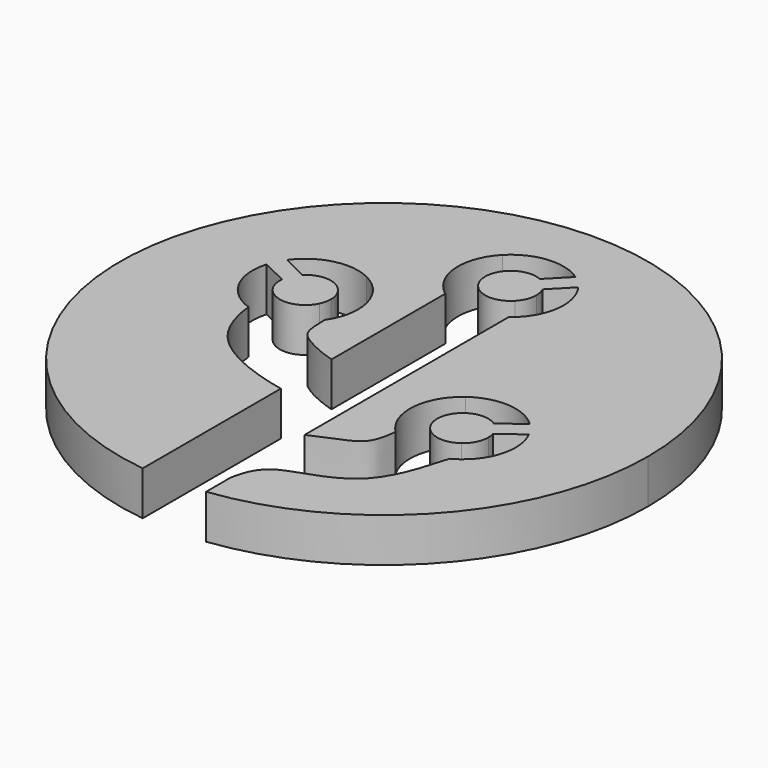
from build123d import *

# Parameters (mm, degrees)
F1_DEPTH = 12.7
F2_SCALE = 0.66


with BuildPart() as f1:
    # F0 (on Top) → F1 (new body)
    with BuildSketch(Plane.XY):
        with BuildLine():
            ThreePointArc((9.144, -75.649370546), (57.0228585744, -50.545361805), (76.2, 0))
            ThreePointArc((76.2, 0), (-50.545361805, 57.0228585744), (-9.144, -75.649370546))
            Line((-9.144, -75.649370546), (-9.144, -25.8135372295))
            add(Edge.make_bspline(
                [(-39.7183440202, 0.7753508904), (-39.4440910843, -2.777005422), (-36.553083053, -17.1021078443), (-18.9419593371, -23.7369574995), (-9.144, -25.8135372295)],
                knots=[0, 0, 0, 0, 0.4252369996, 1, 1, 1, 1], degree=3))
            ThreePointArc((-39.7183440202, 0.7753508904), (-40.6754742648, 1.1288974537), (-41.6068021603, 1.5456969604))
            ThreePointArc((-41.6068021603, 1.5456969604), (-48.8665814514, 9.0976146242), (-49.5365875824, 19.5516543956))
            Line((-49.5365875824, 19.5516543956), (-49.7281257293, 19.6451915248))
            Line((-49.7281257293, 19.6451915248), (-48.6135298352, 21.9275753647))
            Line((-48.6135298352, 21.9275753647), (-47.4989339411, 24.2099592047))
            Line((-47.4989339411, 24.2099592047), (-47.3073957942, 24.1164220755))
            ThreePointArc((-47.3073957942, 24.1164220755), (-38.6511413432, 30.0160080471), (-28.2316514308, 28.9343030396))
            ThreePointArc((-28.2316514308, 28.9343030396), (-21.9929696312, 23.3127613442), (-19.6792267956, 15.24))
            ThreePointArc((-19.6792267956, 15.24), (-20.0706784099, 11.8080601931), (-21.2249237559, 8.5524246353))
            ThreePointArc((-21.2249237559, 8.5524246353), (-21.7640042988, 7.5459944723), (-22.3769164732, 6.5827457137))
            add(Edge.make_bspline(
                [(-22.3769164732, 6.5827457137), (-22.3404298332, 0), (-20.8266819608, -2.6844598977), (-13.5609207024, -6.2294838744), (-9.144, -7.5255372295)],
                knots=[0, 0, 0, 0, 0.4802663243, 1, 1, 1, 1], degree=3))
            Line((-9.144, -7.5255372295), (-9.144, 33.528))
            ThreePointArc((-9.144, 33.528), (-9.9126399717, 34.1442853875), (-10.6398545697, 34.8089462134))
            ThreePointArc((-10.6398545697, 34.8089462134), (-15.2387934395, 45.5282331947), (-10.9110537866, 56.3598545697))
            ThreePointArc((-10.9110537866, 56.3598545697), (-1.4654583891, 60.8893780924), (8.6725291214, 58.2517532149))
            Line((8.6725291214, 58.2517532149), (8.8213456053, 58.4043628816))
            Line((8.8213456053, 58.4043628816), (10.6398545697, 56.6310537866))
            Line((10.6398545697, 56.6310537866), (12.4583635342, 54.8577446917))
            Line((12.4583635342, 54.8577446917), (12.3095470503, 54.705135025))
            ThreePointArc((12.3095470503, 54.705135025), (14.4888767171, 50.445468387), (15.24, 45.72))
            ThreePointArc((15.24, 45.72), (14.1163391095, 39.9766063912), (10.9110537866, 35.0801454303))
            ThreePointArc((10.9110537866, 35.0801454303), (10.0575138307, 34.2699338192), (9.144, 33.528))
            Line((9.144, 33.528), (9.144, -40.114004193))
            add(Edge.make_bspline(
                [(24.2416173395, -26.1141094488), (23.9760214951, -29.019635992), (22.6618021702, -35.5712830239), (16.637557432, -36.5809902221), (9.144, -40.114004193)],
                knots=[0, 0, 0, 0, 0.4233523174, 1, 1, 1, 1], degree=3))
            ThreePointArc((24.2416173395, -26.1141094488), (23.4197381725, -25.2409680236), (22.6690500874, -24.305912564))
            ThreePointArc((22.6690500874, -24.305912564), (19.8464755228, -12.9883852305), (25.8533142316, -2.9898232918))
            ThreePointArc((25.8533142316, -2.9898232918), (35.902476764, -0.0317515966), (45.4870784954, -4.2591935428))
            Line((45.4870784954, -4.2591935428), (45.6584180764, -4.132391318))
            Line((45.6584180764, -4.132391318), (47.1694035038, -6.174087436))
            Line((47.1694035038, -6.174087436), (48.6803889311, -8.2157835541))
            Line((48.6803889311, -8.2157835541), (48.50904935, -8.3425857789))
            ThreePointArc((48.50904935, -8.3425857789), (49.7409422113, -11.6939667042), (50.1592267956, -15.24))
            ThreePointArc((50.1592267956, -15.24), (48.5284535825, -22.0990484954), (43.9851393595, -27.4901767082))
            ThreePointArc((43.9851393595, -27.4901767082), (42.9852650291, -28.1704534806), (41.9345988887, -28.76930724))
            add(Edge.make_bspline(
                [(41.9345988887, -28.76930724), (39.9279943087, -35.8152130856), (35.9444698061, -49.8603623611), (18.2756100818, -55.6743562626), (10.5421582828, -58.6083281826), (9.144, -66.9293478131)],
                knots=[0, 0, 0, 0, 0.3663724735, 0.6899474477, 1, 1, 1, 1], degree=3))
            Line((9.144, -66.9293478131), (9.144, -75.649370546))
        make_face()
        with BuildLine():
            ThreePointArc((-42.246771676, 15.991692773), (-41.3581076897, 11.6624633013), (-38.1515548885, 8.6210868642))
            ThreePointArc((-38.1515548885, 8.6210868642), (-32.5245495467, 8.274120524), (-28.3003136597, 12.007671907))
            ThreePointArc((-28.3003136597, 12.007671907), (-27.7424284092, 13.5812290933), (-27.5532267956, 15.24))
            ThreePointArc((-27.5532267956, 15.24), (-28.6715358328, 19.1418346497), (-31.6868987026, 21.8589131358))
            ThreePointArc((-31.6868987026, 21.8589131358), (-36.057035247, 22.5175921793), (-40.0175798878, 20.5564604529))
            ThreePointArc((-40.0175798878, 20.5564604529), (-40.869813648, 19.5814827089), (-41.5381399314, 18.472328093))
            ThreePointArc((-41.5381399314, 18.472328093), (-42.0019035987, 17.2632758839), (-42.246771676, 15.991692773))
        make_face()
        with BuildLine():
            ThreePointArc((-5.2736759969, 50.8625963754), (-7.3654168291, 45.6273127108), (-5.1425963754, 40.4463240031))
            ThreePointArc((-5.1425963754, 40.4463240031), (0.0926872892, 38.3545831709), (5.2736759969, 40.5774036246))
            ThreePointArc((5.2736759969, 40.5774036246), (6.8228972363, 42.9440264224), (7.366, 45.72))
            ThreePointArc((7.366, 45.72), (7.1836656788, 47.3487735922), (6.6456895426, 48.8969114725))
            ThreePointArc((6.6456895426, 48.8969114725), (5.9866540395, 50.0116115169), (5.1425963754, 50.9936759969))
            ThreePointArc((5.1425963754, 50.9936759969), (4.1396028034, 51.8127534522), (3.0086716137, 52.4435296624))
            ThreePointArc((3.0086716137, 52.4435296624), (-1.3810860685, 52.9553684959), (-5.2736759969, 50.8625963754))
        make_face()
        with BuildLine():
            ThreePointArc((28.9983080533, -19.6218577393), (33.8309463237, -22.5251631152), (39.3010845348, -21.1609187423))
            ThreePointArc((39.3010845348, -21.1609187423), (41.4970197426, -18.5552067728), (42.2852267956, -15.24))
            ThreePointArc((42.2852267956, -15.24), (42.2105358085, -14.1936879636), (41.9879775755, -13.1685950634))
            ThreePointArc((41.9879775755, -13.1685950634), (41.5160007505, -11.962725311), (40.8401455379, -10.8581422607))
            ThreePointArc((40.8401455379, -10.8581422607), (39.9812997643, -9.888983904), (38.9660067208, -9.0852028274))
            ThreePointArc((38.9660067208, -9.0852028274), (34.7149131509, -7.8768341093), (30.5373690563, -9.3190812577))
            ThreePointArc((30.5373690563, -9.3190812577), (27.6340636804, -14.1517195281), (28.9983080533, -19.6218577393))
        make_face()
        with BuildLine():
            ThreePointArc((-48.6135298352, 21.9275753647), (-49.1248182042, 20.7589467049), (-49.5365875824, 19.5516543956))
            Line((-49.5365875824, 19.5516543956), (-42.246771676, 15.991692773))
            ThreePointArc((-42.246771676, 15.991692773), (-42.0019035987, 17.2632758839), (-41.5381399314, 18.472328093))
            Line((-41.5381399314, 18.472328093), (-48.6135298352, 21.9275753647))
        make_face()
        with BuildLine():
            ThreePointArc((47.1694035038, -6.174087436), (46.3683450919, -5.1814071443), (45.4870784954, -4.2591935428))
            Line((45.4870784954, -4.2591935428), (38.9660067208, -9.0852028274))
            ThreePointArc((38.9660067208, -9.0852028274), (39.9812997643, -9.888983904), (40.8401455379, -10.8581422607))
            Line((40.8401455379, -10.8581422607), (47.1694035038, -6.174087436))
        make_face()
        with BuildLine():
            Line((41.9879775755, -13.1685950634), (48.50904935, -8.3425857789))
            ThreePointArc((48.50904935, -8.3425857789), (47.8846418194, -7.230280076), (47.1694035038, -6.174087436))
            Line((47.1694035038, -6.174087436), (40.8401455379, -10.8581422607))
            ThreePointArc((40.8401455379, -10.8581422607), (41.5160007505, -11.962725311), (41.9879775755, -13.1685950634))
        make_face()
        with BuildLine():
            Line((6.6456895426, 48.8969114725), (12.3095470503, 54.705135025))
            ThreePointArc((12.3095470503, 54.705135025), (11.5150357988, 55.7030631848), (10.6398545697, 56.6310537866))
            Line((10.6398545697, 56.6310537866), (5.1425963754, 50.9936759969))
            ThreePointArc((5.1425963754, 50.9936759969), (5.9866540395, 50.0116115169), (6.6456895426, 48.8969114725))
        make_face()
        with BuildLine():
            ThreePointArc((10.6398545697, 56.6310537866), (9.6901345511, 57.48260568), (8.6725291214, 58.2517532149))
            Line((8.6725291214, 58.2517532149), (3.0086716137, 52.4435296624))
            ThreePointArc((3.0086716137, 52.4435296624), (4.1396028034, 51.8127534522), (5.1425963754, 50.9936759969))
            Line((5.1425963754, 50.9936759969), (10.6398545697, 56.6310537866))
        make_face()
        with BuildLine():
            ThreePointArc((-47.3073957942, 24.1164220755), (-48.006304368, 23.0493534056), (-48.6135298352, 21.9275753647))
            Line((-48.6135298352, 21.9275753647), (-41.5381399314, 18.472328093))
            ThreePointArc((-41.5381399314, 18.472328093), (-40.869813648, 19.5814827089), (-40.0175798878, 20.5564604529))
            Line((-40.0175798878, 20.5564604529), (-47.3073957942, 24.1164220755))
        make_face()
        with BuildLine():
            ThreePointArc((47.1694035038, -6.174087436), (47.8846418194, -7.230280076), (48.50904935, -8.3425857789))
            Line((48.50904935, -8.3425857789), (48.6803889311, -8.2157835541))
            Line((48.6803889311, -8.2157835541), (47.1694035038, -6.174087436))
        make_face()
        with BuildLine():
            Line((45.6584180764, -4.132391318), (45.4870784954, -4.2591935428))
            ThreePointArc((45.4870784954, -4.2591935428), (46.3683450919, -5.1814071443), (47.1694035038, -6.174087436))
            Line((47.1694035038, -6.174087436), (45.6584180764, -4.132391318))
        make_face()
        with BuildLine():
            Line((8.8213456053, 58.4043628816), (8.6725291214, 58.2517532149))
            ThreePointArc((8.6725291214, 58.2517532149), (9.6901345511, 57.48260568), (10.6398545697, 56.6310537866))
            Line((10.6398545697, 56.6310537866), (8.8213456053, 58.4043628816))
        make_face()
        with BuildLine():
            ThreePointArc((10.6398545697, 56.6310537866), (11.5150357988, 55.7030631848), (12.3095470503, 54.705135025))
            Line((12.3095470503, 54.705135025), (12.4583635342, 54.8577446917))
            Line((12.4583635342, 54.8577446917), (10.6398545697, 56.6310537866))
        make_face()
        with BuildLine():
            Line((-49.7281257293, 19.6451915248), (-49.5365875824, 19.5516543956))
            ThreePointArc((-49.5365875824, 19.5516543956), (-49.1248182042, 20.7589467049), (-48.6135298352, 21.9275753647))
            Line((-48.6135298352, 21.9275753647), (-49.7281257293, 19.6451915248))
        make_face()
        with BuildLine():
            Line((-47.4989339411, 24.2099592047), (-48.6135298352, 21.9275753647))
            ThreePointArc((-48.6135298352, 21.9275753647), (-48.006304368, 23.0493534056), (-47.3073957942, 24.1164220755))
            Line((-47.3073957942, 24.1164220755), (-47.4989339411, 24.2099592047))
        make_face()
    extrude(amount=F1_DEPTH)


with BuildPart() as f1_1:
    # F2: moved
    add(f1.part.scale(F2_SCALE))


solid = f1_1.part
